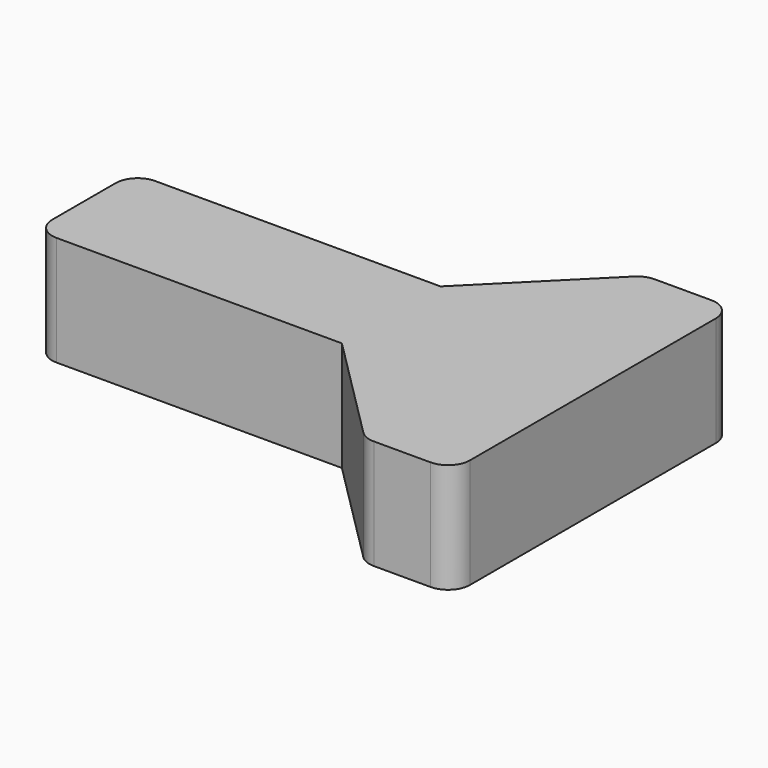
from build123d import *

# Parameters (mm, degrees)
F1_DEPTH = 25
F2_R     = 5


with BuildPart() as f1:
    # F0 (on Top) → F1 (new body)
    with BuildSketch(Plane.XY):
        Polygon((-70, 14.044047), (-70, 0), (-70, -14.044047), (0, -14.044047), (25.955953, -40), (45.955953, -40), (45.955953, 0), (45.955953, 40), (25.955953, 40), (0, 14.044047), align=None)
    extrude(amount=F1_DEPTH)

    # F2
    f2_edges = [f1.edges().sort_by_distance(p)[0] for p in [
        (-70, -14.044047, 12.5),
        (-70, 14.044047, 12.5),
        (25.955953, -40, 12.5),
        (25.955953, 40, 12.5),
        (45.955953, 40, 12.5),
        (45.955953, -40, 12.5),
    ]]
    fillet(f2_edges, radius=F2_R)


solid = f1.part
